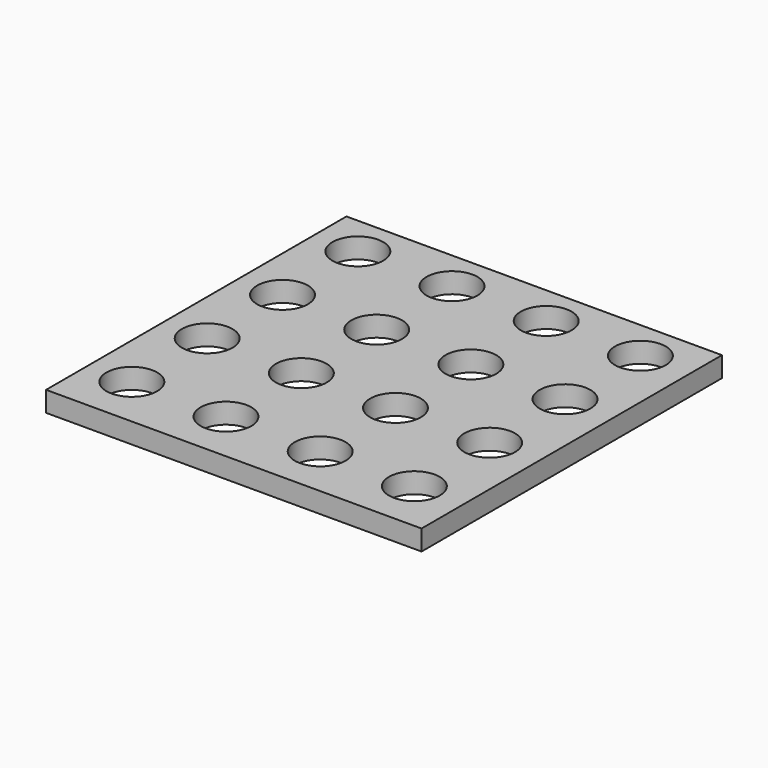
from build123d import *

# Parameters (mm, degrees)
F0_W     = 117.475
F0_H     = 117.475
F0_R     = 7.9375
F1_DEPTH = 6.35


with BuildPart() as f1:
    # F0 (on Top) → F1 (new body)
    with BuildSketch(Plane.XY):
        with Locations((0.346866, 9.332995)):
            Rectangle(F0_W, F0_H)
        with Locations((-44.665746, -33.021505)):
            Circle(F0_R, mode=Mode.SUBTRACT)
        with Locations((-15.201746, -33.021505)):
            Circle(F0_R, mode=Mode.SUBTRACT)
        with Locations((-44.665746, -3.557505)):
            Circle(F0_R, mode=Mode.SUBTRACT)
        with Locations((-15.201746, -3.557505)):
            Circle(F0_R, mode=Mode.SUBTRACT)
        with Locations((14.262254, -33.021505)):
            Circle(F0_R, mode=Mode.SUBTRACT)
        with Locations((43.726254, -33.021505)):
            Circle(F0_R, mode=Mode.SUBTRACT)
        with Locations((14.262254, -3.557505)):
            Circle(F0_R, mode=Mode.SUBTRACT)
        with Locations((43.726254, -3.557505)):
            Circle(F0_R, mode=Mode.SUBTRACT)
        with Locations((-44.665746, 25.906495)):
            Circle(F0_R, mode=Mode.SUBTRACT)
        with Locations((-15.201746, 25.906495)):
            Circle(F0_R, mode=Mode.SUBTRACT)
        with Locations((-44.665746, 55.370495)):
            Circle(F0_R, mode=Mode.SUBTRACT)
        with Locations((-15.201746, 55.370495)):
            Circle(F0_R, mode=Mode.SUBTRACT)
        with Locations((14.262254, 25.906495)):
            Circle(F0_R, mode=Mode.SUBTRACT)
        with Locations((43.726254, 25.906495)):
            Circle(F0_R, mode=Mode.SUBTRACT)
        with Locations((14.262254, 55.370495)):
            Circle(F0_R, mode=Mode.SUBTRACT)
        with Locations((43.726254, 55.370495)):
            Circle(F0_R, mode=Mode.SUBTRACT)
    extrude(amount=F1_DEPTH)


solid = f1.part
